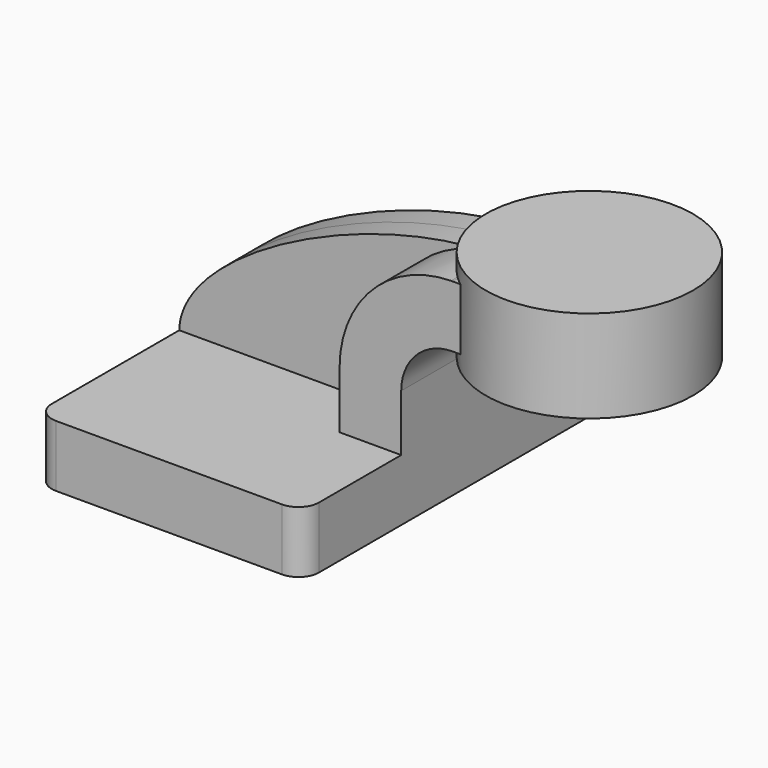
from build123d import *

# Parameters (mm, degrees)
F1_DEPTH = 63.5
F2_DEPTH = 25.4
F3_DEPTH = 7.9375
F0_W     = 32.035574
F0_H     = 28.575
F5_R     = 6.35


with BuildPart() as f1:
    # F0 (on Front) → F1 (new body, symmetric)
    with BuildSketch(Plane.XZ):
        Polygon((-41.275, 9.525), (-41.275, -9.525), (41.275, -9.525), (41.275, 9.525), (22.225, 9.525), align=None)
    extrude(amount=F1_DEPTH, both=True)

    # F0 (on Front) → F2 (join, symmetric)
    with BuildSketch(Plane.XZ):
        with BuildLine():
            Line((22.225, 9.525), (41.275, 9.525))
            Line((41.275, 9.525), (41.275, 27.0002))
            ThreePointArc((41.275, 27.0002), (45.92468, 38.22552), (57.15, 42.8752))
            Line((57.15, 42.8752), (60.325, 42.8752))
            Line((60.325, 42.8752), (60.325, 61.9252))
            Line((60.325, 61.9252), (57.15, 61.9252))
            add(Edge.make_bspline(
                [(56.676857, 61.921995), (56.834796, 61.923482), (56.992512, 61.924551), (57.15, 61.9252)],
                knots=[111.078345, 111.078345, 111.078345, 111.078345, 111.504536, 111.504536, 111.504536, 111.504536], degree=3))
            ThreePointArc((56.676857, 61.921995), (32.287577, 51.528053), (22.225, 27.0002))
            Line((22.225, 27.0002), (22.225, 9.525))
        make_face()
    extrude(amount=F2_DEPTH, both=True)

    # F0 (on Front) → F3 (join, symmetric)
    with BuildSketch(Plane.XZ):
        with BuildLine():
            add(Edge.make_bspline(
                [(-41.275, 9.525), (-40.855104, 32.748828), (15.513022, 61.534422), (56.676857, 61.921995)],
                knots=[0, 0, 0, 0, 111.078345, 111.078345, 111.078345, 111.078345], degree=3))
            Line((-41.275, 9.525), (22.225, 9.525))
            Line((22.225, 9.525), (22.225, 27.0002))
            ThreePointArc((22.225, 27.0002), (32.287577, 51.528053), (56.676857, 61.921995))
        make_face()
    extrude(amount=F3_DEPTH, both=True)

    # F0 (on Front) → F4 (revolve)
    with BuildSketch(Plane.XZ):
        with Locations((95.107213, 52.3875)):
            Rectangle(F0_W, F0_H)
    revolve(axis=Axis((79.089426, 0, 52.3875), (0, 0, 1)))

    # F5
    f5_edges = [f1.edges().sort_by_distance(p)[0] for p in [
        (41.275, -63.5, 0),
        (-41.275, -63.5, 0),
        (41.275, 63.5, 0),
        (-41.275, 63.5, 0),
    ]]
    fillet(f5_edges, radius=F5_R)


solid = f1.part
